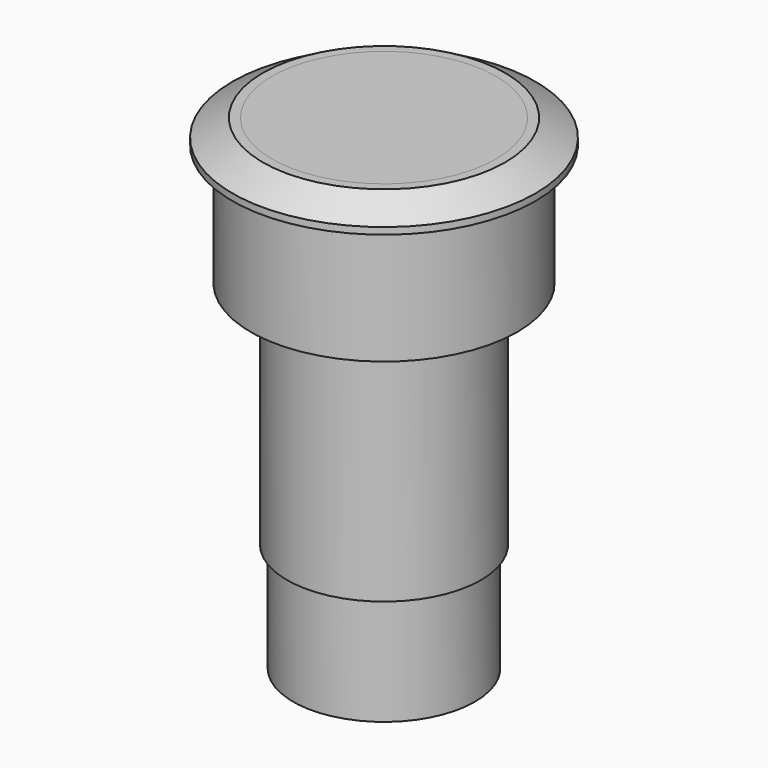
from build123d import *

# Parameters (mm, degrees)
F0_R      = 9.25
F1_DEPTH  = 3
F2_R      = 12.5
F2_R_2    = 9.25
F3_DEPTH  = 2
F4_R      = 11
F4_R_2    = 9.25
F5_DEPTH  = 10
F6_R      = 11
F7_DEPTH  = 2
F8_SIZE2  = 1.443375673
F8_SIZE   = 2.5
F9_R      = 8
F10_DEPTH = 19
F11_R     = 7.5
F12_DEPTH = 9


with BuildPart() as f1:
    # F0 (on Top) → F1 (new body)
    with BuildSketch(Plane.XY):
        Circle(F0_R)
    extrude(amount=F1_DEPTH)


with BuildPart() as f3:
    # F2 (on face) → F3 (new body)
    with BuildSketch(Plane.XY.offset(3)):
        Circle(F2_R)
        Circle(F2_R_2, mode=Mode.SUBTRACT)
    extrude(amount=-F3_DEPTH)

    # F4 (on face) → F5 (join)
    with BuildSketch(Plane(origin=(0, 0, 1), x_dir=(1, 0, 0), z_dir=(0, 0, -1))):
        Circle(F4_R)
        Circle(F4_R_2, mode=Mode.SUBTRACT)
    extrude(amount=F5_DEPTH)

    # F6 (on face) → F7 (join)
    with BuildSketch(Plane(origin=(0, 0, -9), x_dir=(1, 0, 0), z_dir=(0, 0, -1))):
        Circle(F6_R)
    extrude(amount=-F7_DEPTH)

    # F8
    f8_edges = [f3.edges().sort_by_distance(p)[0] for p in [
        (-12.5, 0, 3),
    ]]
    f8_side = f3.faces().sort_by_distance((-12.146447, 0, 3))[0]
    chamfer(f8_edges, length=F8_SIZE, length2=F8_SIZE2, reference=f8_side)


with BuildPart() as f10:
    # F9 (on face) → F10 (new body)
    with BuildSketch(Plane(origin=(0, 0, -9), x_dir=(1, 0, 0), z_dir=(0, 0, -1))):
        Circle(F9_R)
    extrude(amount=F10_DEPTH)


with BuildPart() as f12:
    # F11 (on face) → F12 (new body)
    with BuildSketch(Plane(origin=(0, 0, -28), x_dir=(1, 0, 0), z_dir=(0, 0, -1))):
        Circle(F11_R)
    extrude(amount=F12_DEPTH)


solid = Compound([f1.part, f3.part, f10.part, f12.part])
